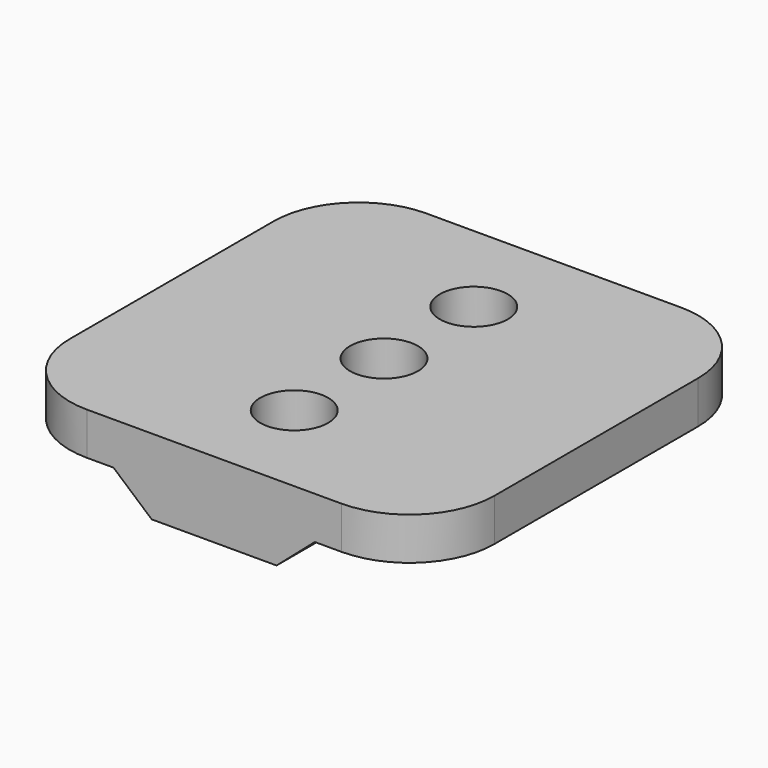
from build123d import *

# Parameters (mm, degrees)
SKETCH_W     = 20
SKETCH_H     = 20
PAD_DEPTH    = 2
PAD001_DEPTH = 20
SKETCH002_R  = 1.6
POCKET_DEPTH = 3.561
FILLET_R     = 4


with BuildPart() as part:
    # Sketch → Pad (new body)
    with BuildSketch(Plane.XY):
        Rectangle(SKETCH_W, SKETCH_H)
    extrude(amount=PAD_DEPTH)

    # Sketch001 (on Face1 of Pad) → Pad001 (join)
    with BuildSketch(Plane(origin=(0, 10, 0), x_dir=(-1, 0, 0), z_dir=(0, 1, 0))):
        Polygon((4.74, 0), (-4.74, 0), (-2.94, -1.56), (2.94, -1.56), align=None)
    extrude(amount=-PAD001_DEPTH)

    # Sketch002 (on Face7 of Pad001) → Pocket (cut, through all)
    with BuildSketch(Plane.XY.offset(2)):
        Circle(SKETCH002_R)
        with Locations((0, 5.286)):
            Circle(SKETCH002_R)
        with Locations((0, -5.286)):
            Circle(SKETCH002_R)
    extrude(amount=-POCKET_DEPTH, mode=Mode.SUBTRACT)

    # Fillet
    fillet_edges = [part.edges().sort_by_distance(p)[0] for p in [
        (-10, 10, 1),
        (10, 10, 1),
        (-10, -10, 1),
        (10, -10, 1),
    ]]
    fillet(fillet_edges, radius=FILLET_R)


solid = part.part
